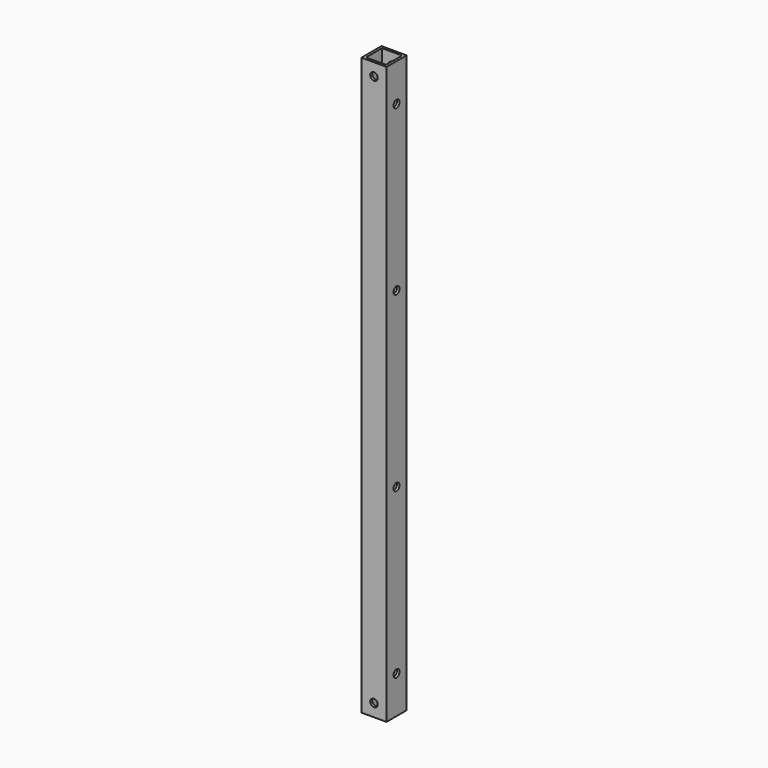
from build123d import *

# Parameters (mm, degrees)
F0_W     = 10
F0_H     = 10
F0_W_2   = 8
F0_H_2   = 8
F1_DEPTH = 230
F2_R     = 1.5
F3_DEPTH = 25
F4_R     = 1.5
F5_DEPTH = 25


with BuildPart() as f1:
    # F0 (on Top) → F1 (new body)
    with BuildSketch(Plane.XY):
        Rectangle(F0_W, F0_H)
        Rectangle(F0_W_2, F0_H_2, mode=Mode.SUBTRACT)
    extrude(amount=F1_DEPTH)

    # F2 (on face) → F3 (cut)
    with BuildSketch(Plane.YZ.offset(5)):
        with Locations((0, 80.5)):
            Circle(F2_R)
        with Locations((0, 15)):
            Circle(F2_R)
        with Locations((0, 149.5)):
            Circle(F2_R)
        with Locations((0, 215)):
            Circle(F2_R)
    extrude(amount=-F3_DEPTH, mode=Mode.SUBTRACT)

    # F4 (on face) → F5 (cut)
    with BuildSketch(Plane.XZ.offset(5)):
        with Locations((0, 5)):
            Circle(F4_R)
        with Locations((0, 225)):
            Circle(F4_R)
    extrude(amount=-F5_DEPTH, mode=Mode.SUBTRACT)


solid = f1.part
